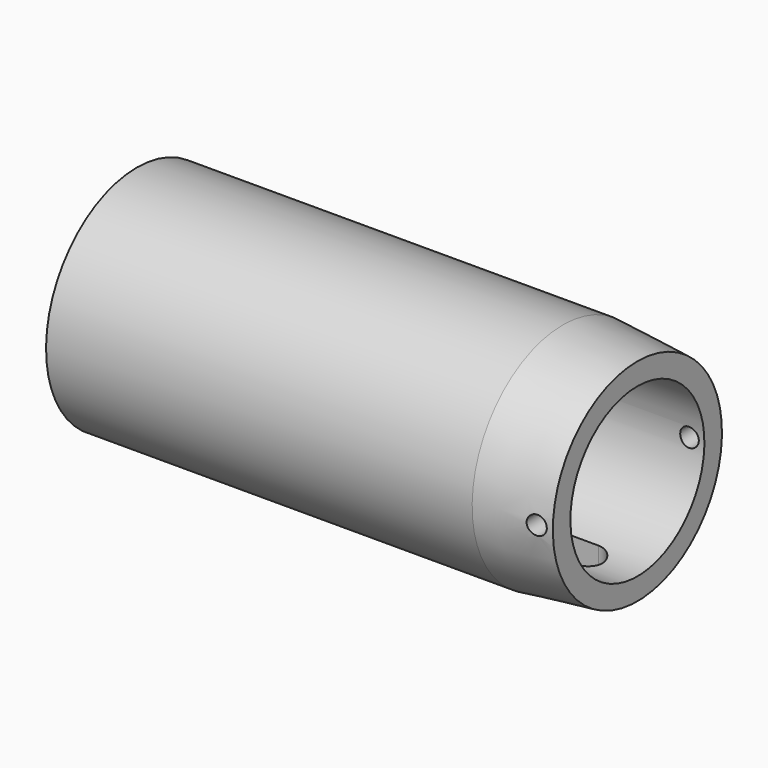
from build123d import *

# Parameters (mm, degrees)
F2_R          = 1.5875
F3_DEPTH      = 19.3685
F3_DEPTH_BACK = 19.3685
F6_W          = 76.2
F6_H          = 6.35
F7_DEPTH      = 5.438244135


with BuildPart() as f1:
    # F0 (on Front) → F1 (revolve)
    with BuildSketch(Plane.XZ):
        Polygon((72.6948, 19.3675), (0, 19.3675), (0, 14.2875), (85.3948, 14.2875), (85.3948, 18.0326762121), align=None)
    revolve(axis=Axis((42.6974, 0, 0), (1, 0, 0)))

    # F2 (on Front) → F3 (cut, two sides)
    with BuildSketch(Plane.XZ) as f3_sk:
        with Locations((82.8548, 0)):
            Circle(F2_R)
    extrude(amount=-F3_DEPTH, mode=Mode.SUBTRACT)
    extrude(f3_sk.sketch, amount=F3_DEPTH_BACK, mode=Mode.SUBTRACT)

    # F6 (on plane+point) → F7 (cut, through all)
    with BuildSketch(Plane.XY.offset(-19.3675)):
        with Locations((38.1, 0)):
            Rectangle(F6_W, F6_H)
        with BuildLine():
            ThreePointArc((76.2, -3.175), (79.375, 0), (76.2, 3.175))
            Line((76.2, 3.175), (76.2, -3.175))
        make_face()
    extrude(amount=F7_DEPTH, mode=Mode.SUBTRACT)


solid = f1.part
